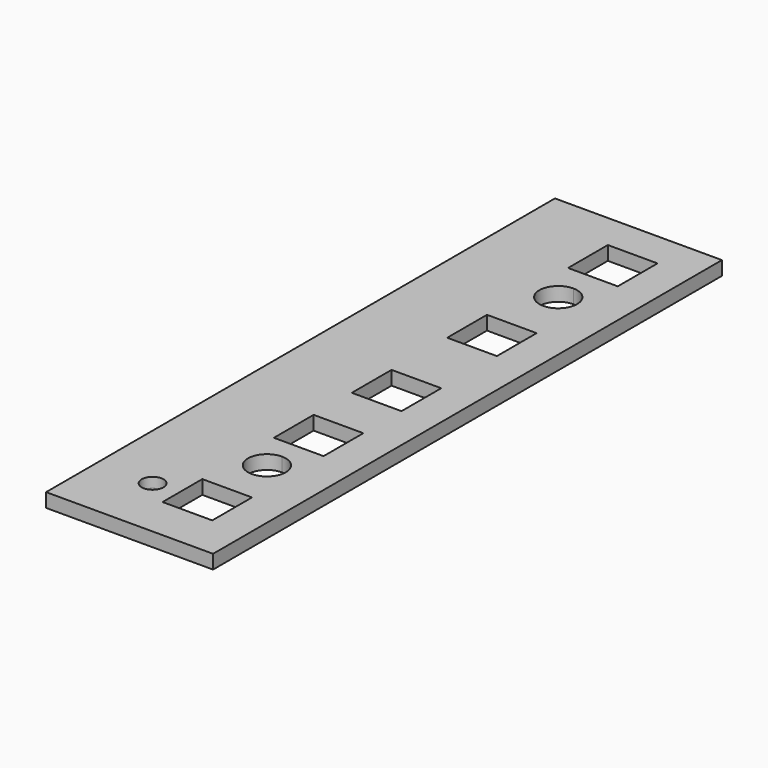
from build123d import *

# Parameters (mm, degrees)
F0_W     = 21
F0_H     = 80
F1_DEPTH = 1.75
F2_R     = 0.5


with BuildPart() as f1:
    # F0 (on Top) → F1 (new body)
    with BuildSketch(Plane.XY):
        Rectangle(F0_W, F0_H)
        Polygon((-3.5, -38), (-8, -38), (-8, 38), (2.4113073014, 38), (2.875, 38), (8, 38), (8, 34.8211936653), (8, -25.2775736153), (8, -38), (2.875, -38), align=None, mode=Mode.SUBTRACT)
        Polygon((-8, 38), (-8, -38), (-3.5, -38), (2.875, -38), (2.875, -34.5), (-0.25, -34.5), (-0.25, -28.25), (2.875, -28.25), (2.875, -25.2775736153), (8, -25.2775736153), (8, 34.8211936653), (6, 34.8211936653), (6, 29.25), (2.875, 29.25), (2.4113073014, 29.25), (-0.25, 29.25), (-0.25, 34.8211936653), (-0.25, 35.5), (2.4113073014, 35.5), (2.4113073014, 38), align=None)
        with BuildLine():
            ThreePointArc((-2.125, -32), (-2.5277281759, -32.9722718241), (-3.5, -33.375))
            ThreePointArc((-3.5, -33.375), (-4.4722718241, -31.0277281759), (-2.125, -32))
        make_face(mode=Mode.SUBTRACT)
        with BuildLine():
            ThreePointArc((5.25, -22), (4.5543786053, -23.6793786053), (2.875, -24.375))
            ThreePointArc((2.875, -24.375), (0.5, -22), (2.875, -19.625))
            ThreePointArc((2.875, -19.625), (4.5543786053, -20.3206213947), (5.25, -22))
        make_face(mode=Mode.SUBTRACT)
        Polygon((6, -17), (2.875, -17), (-0.25, -17), (-0.25, -10.75), (6, -10.75), align=None, mode=Mode.SUBTRACT)
        Polygon((-0.25, 1.5), (2.875, 1.5), (6, 1.5), (6, -4.75), (-0.25, -4.75), align=None, mode=Mode.SUBTRACT)
        Polygon((-0.25, 16.5), (2.875, 16.5), (6, 16.5), (6, 10.25), (2.875, 10.25), (-0.25, 10.25), align=None, mode=Mode.SUBTRACT)
        with BuildLine():
            ThreePointArc((2.875, 21.425), (0.5, 23.8), (2.875, 26.175))
            ThreePointArc((2.875, 26.175), (4.5543786053, 25.4793786053), (5.25, 23.8))
            ThreePointArc((5.25, 23.8), (4.5543786053, 22.1206213947), (2.875, 21.425))
        make_face(mode=Mode.SUBTRACT)
        Polygon((2.875, -34.5), (2.875, -38), (8, -38), (8, -25.2775736153), (2.875, -25.2775736153), (2.875, -28.25), (6, -28.25), (6, -34.5), align=None)
        Polygon((8, 38), (2.875, 38), (2.875, 36.7266349494), (2.875, 35.5), (6, 35.5), (6, 34.8211936653), (8, 34.8211936653), align=None)
        Polygon((2.875, 38), (2.4113073014, 38), (2.4113073014, 35.5), (2.875, 35.5), (2.875, 36.7266349494), align=None)
    extrude(amount=F1_DEPTH)

    # F2
    f2_edges = [f1.edges().sort_by_distance(p)[0] for p in [
        (-3.5, -30.625, 0),
    ]]
    fillet(f2_edges, radius=F2_R)


solid = f1.part
